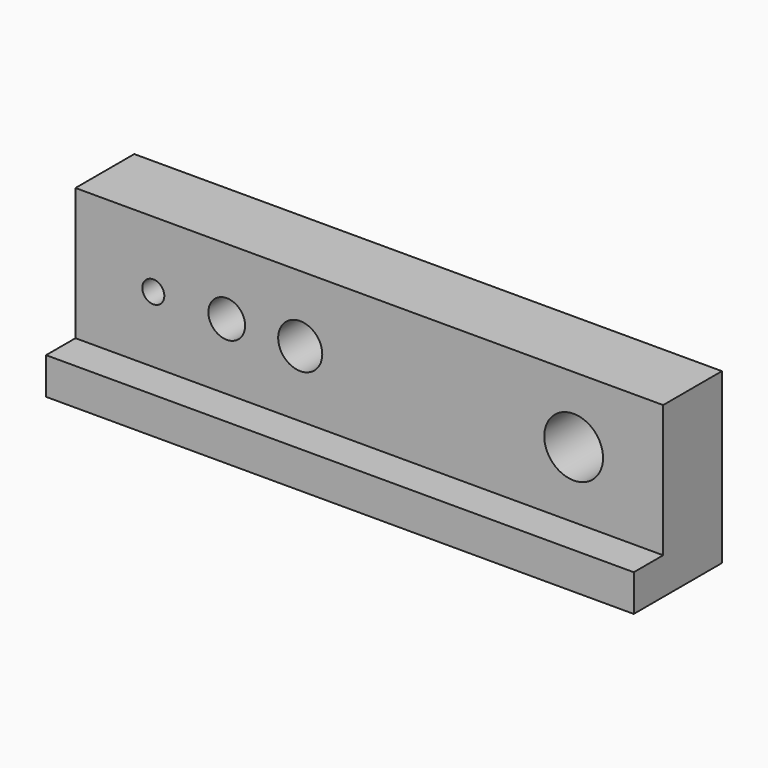
from build123d import *

# Parameters (mm, degrees)
F0_W     = 80
F0_H     = 18
F0_R     = 1.5
F0_R_2   = 2.5
F0_R_3   = 3
F0_R_4   = 4
F0_H_2   = 5
F1_DEPTH = 10
F2_W     = 80
F2_H     = 5
F3_DEPTH = 5


with BuildPart() as f1:
    # F0 (on Front) → F1 (new body)
    with BuildSketch(Plane.XZ):
        with Locations((0, 2.5)):
            Rectangle(F0_W, F0_H)
        with Locations((-29.404223, 2.5)):
            Circle(F0_R, mode=Mode.SUBTRACT)
        with Locations((-19.404223, 2.5)):
            Circle(F0_R_2, mode=Mode.SUBTRACT)
        with Locations((-9.404223, 2.5)):
            Circle(F0_R_3, mode=Mode.SUBTRACT)
        with Locations((27.818874, 2.5)):
            Circle(F0_R_4, mode=Mode.SUBTRACT)
        with Locations((0, -9)):
            Rectangle(F0_W, F0_H_2)
    extrude(amount=F1_DEPTH)

    # F2 (on face) → F3 (join)
    with BuildSketch(Plane.XZ.offset(10)):
        with Locations((0, -9)):
            Rectangle(F2_W, F2_H)
    extrude(amount=F3_DEPTH)


solid = f1.part
